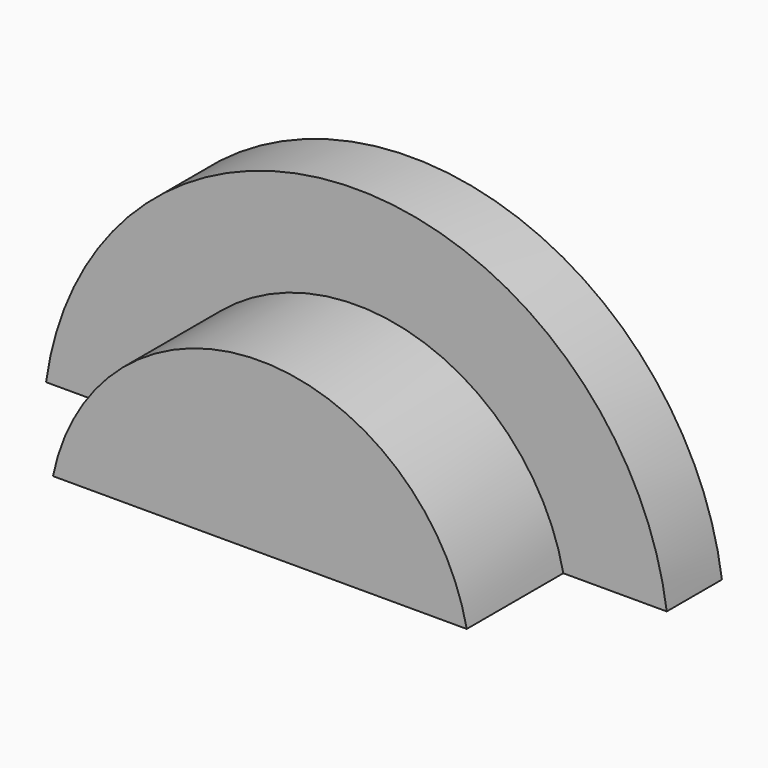
from build123d import *

# Parameters (mm, degrees)
PAD_DEPTH    = 3.5
PAD001_DEPTH = 2


with BuildPart() as part:
    # Sketch → Pad (new body)
    with BuildSketch(Plane.XZ):
        with BuildLine():
            ThreePointArc((6, 0), (0, 4.9), (-6, 0))
            Line((-6, 0), (6, 0))
        make_face()
    extrude(amount=PAD_DEPTH)

    # Sketch001 → Pad001 (join)
    with BuildSketch(Plane.XZ):
        with BuildLine():
            Line((-9, 0), (9, 0))
            ThreePointArc((9, 0), (0, 7.85931), (-9, 0))
        make_face()
    extrude(amount=-PAD001_DEPTH)


solid = part.part
